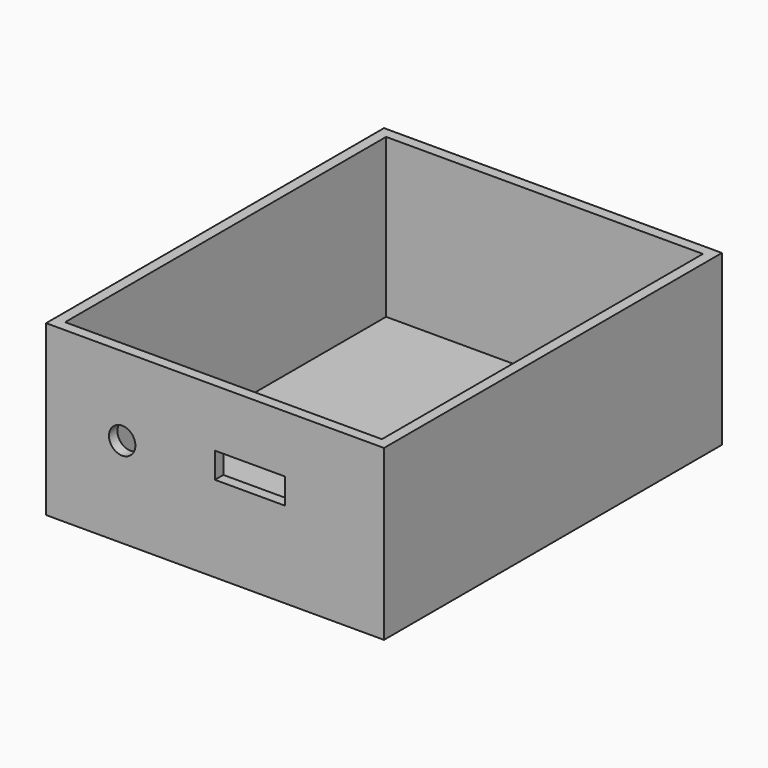
from build123d import *

# Parameters (mm, degrees)
F0_W     = 101.6
F0_H     = 50.8
F1_DEPTH = 127
F2_T     = -3.175
F4_D     = 7.9375
F4_DEPTH = 12.7
F5_W     = 21.021394
F5_H     = 7.722143
F6_DEPTH = 3.175


with BuildPart() as f1:
    # F0 (on Front) → F1 (new body)
    with BuildSketch(Plane.XZ):
        with Locations((-34.801298, 25.4)):
            Rectangle(F0_W, F0_H)
    extrude(amount=F1_DEPTH)

    # F2
    f2_openings = [f1.faces().sort_by_distance(p)[0] for p in [
        (-34.801298, -63.5, 50.8),
    ]]
    offset(amount=F2_T, openings=f2_openings)

    # F4
    with Locations(Plane.XZ.offset(127)):
        with Locations((-62.723987, 27.134759)):
            Hole(F4_D / 2, depth=F4_DEPTH)

    # F5 (on face) → F6 (cut, through all)
    with BuildSketch(Plane.XZ.offset(127)):
        with Locations((-24.327768, 29.708806)):
            Rectangle(F5_W, F5_H)
    extrude(amount=-F6_DEPTH, mode=Mode.SUBTRACT)


solid = f1.part
